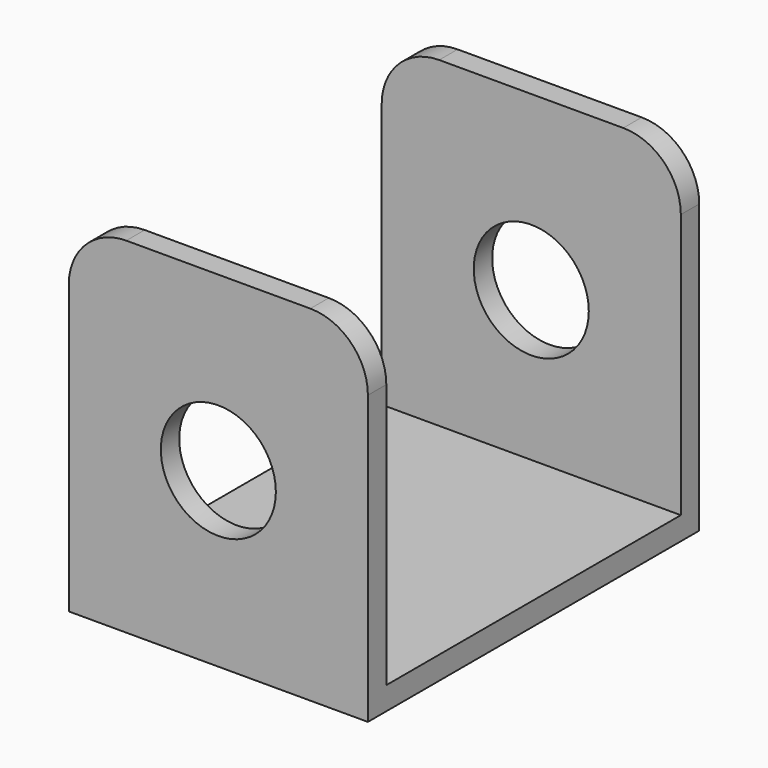
from build123d import *

# Parameters (mm, degrees)
F0_W     = 26
F0_H     = 30
F0_R     = 5
F1_DEPTH = 18
F2_W     = 32
F2_H     = 28
F3_DEPTH = 26.001
F4_R     = 5


with BuildPart() as f1:
    # F0 (on Front) → F1 (new body, symmetric)
    with BuildSketch(Plane.XZ):
        Rectangle(F0_W, F0_H)
        Circle(F0_R, mode=Mode.SUBTRACT)
    extrude(amount=F1_DEPTH, both=True)

    # F2 (on face) → F3 (cut, through all)
    with BuildSketch(Plane.YZ.offset(13)):
        with Locations((0, 1)):
            Rectangle(F2_W, F2_H)
    extrude(amount=-F3_DEPTH, mode=Mode.SUBTRACT)

    # F4
    f4_edges = [f1.edges().sort_by_distance(p)[0] for p in [
        (13, -17, 15),
        (13, 17, 15),
        (-13, 17, 15),
        (-13, -17, 15),
    ]]
    fillet(f4_edges, radius=F4_R)


solid = f1.part
